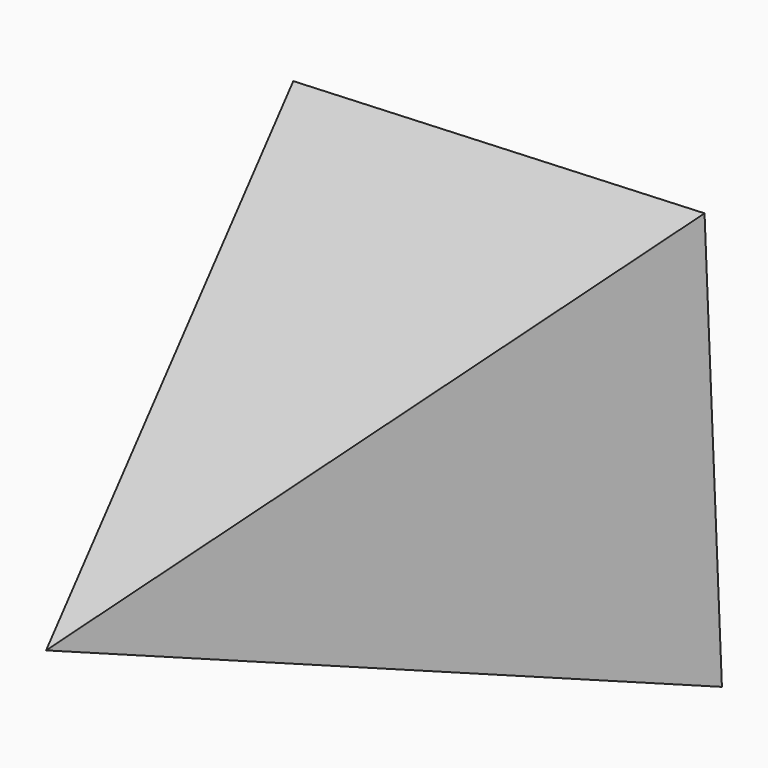
from build123d import *


with BuildPart() as f3:
    # F0 (on Front) → F3 section 0
    with BuildSketch(Plane.XZ, mode=Mode.PRIVATE) as f3_s0:
        Polygon((37.15164, -34.139346), (34.139346, 37.15164), (-37.15164, 34.139346), (-34.139346, -37.15164), align=None)
    loft([f3_s0.sketch, Vertex(0, -100, 0)])


solid = f3.part
